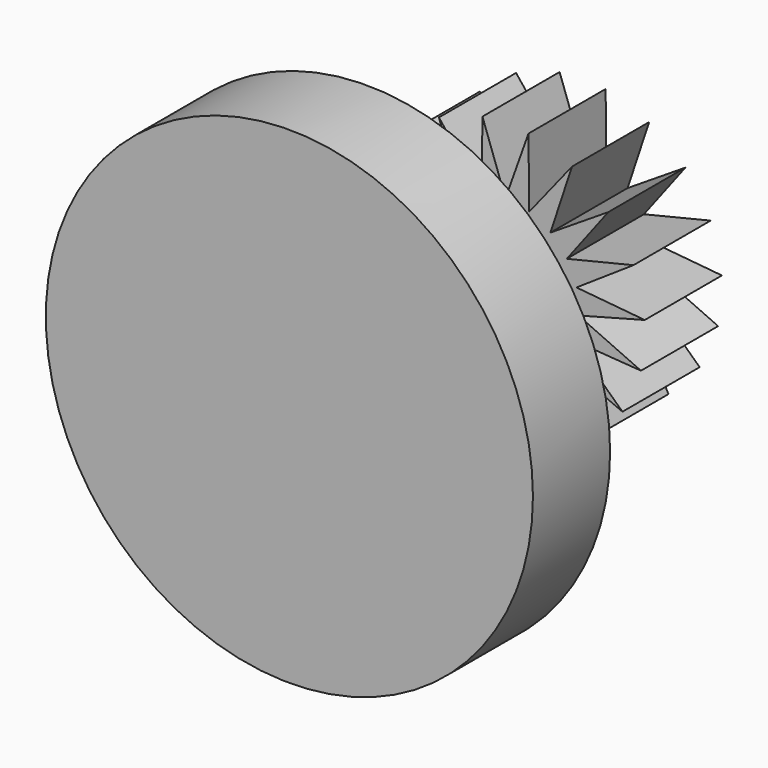
from build123d import *

# Parameters (mm, degrees)
F1_DEPTH = 10
F2_R     = 5
F3_DEPTH = 18
F4_R     = 25.25
F4_R_2   = 5
F5_DEPTH = 10


with BuildPart() as f1:
    # F0 (on Front) → F1 (new body)
    with BuildSketch(Plane.XZ):
        Polygon((2.3851137612, 14.2932031622), (0, 7.5944172762), (-2.3851137612, 14.2932031622), (-2.4659032585, 7.1829308005), (-6.8968771988, 12.7443128177), (-4.6645876365, 5.9930623179), (-10.6612569758, 9.814378431), (-6.3577915656, 4.1537525412), (-13.270324133, 5.8209038555), (-7.3620301272, 1.8643192246), (-14.4413457601, 1.1966440267), (-7.5684784909, -0.6271420079), (-14.0474234935, -3.5572907503), (-6.954764773, -3.0506426728), (-12.1312449232, -7.9257378774), (-5.5873943777, -5.1435588684), (-8.9004577298, -11.4353083251), (-3.6145431043, -6.6790906501), (-4.7051678366, -13.7056856786), (-1.25, -7.4908393232), (0, -14.4908393232), (1.25, -7.4908393232), (4.7051678366, -13.7056856786), (3.6145431043, -6.6790906501), (8.9004577298, -11.4353083251), (5.5873943777, -5.1435588684), (12.1312449232, -7.9257378774), (6.954764773, -3.0506426728), (14.0474234935, -3.5572907503), (7.5684784909, -0.6271420079), (14.4413457601, 1.1966440267), (7.3620301272, 1.8643192246), (13.270324133, 5.8209038555), (6.3577915656, 4.1537525412), (10.6612569758, 9.814378431), (4.6645876365, 5.9930623179), (6.8968771988, 12.7443128177), (2.4659032585, 7.1829308005), align=None)
    extrude(amount=F1_DEPTH)

    # F2 (on face) → F3 (join)
    with BuildSketch(Plane.XZ.offset(10)):
        Circle(F2_R)
    extrude(amount=F3_DEPTH)

    # F4 (on face) → F5 (join)
    with BuildSketch(Plane.XZ.offset(28)):
        Circle(F4_R)
        Circle(F4_R_2, mode=Mode.SUBTRACT)
        Circle(F4_R_2)
    extrude(amount=F5_DEPTH)


solid = f1.part
